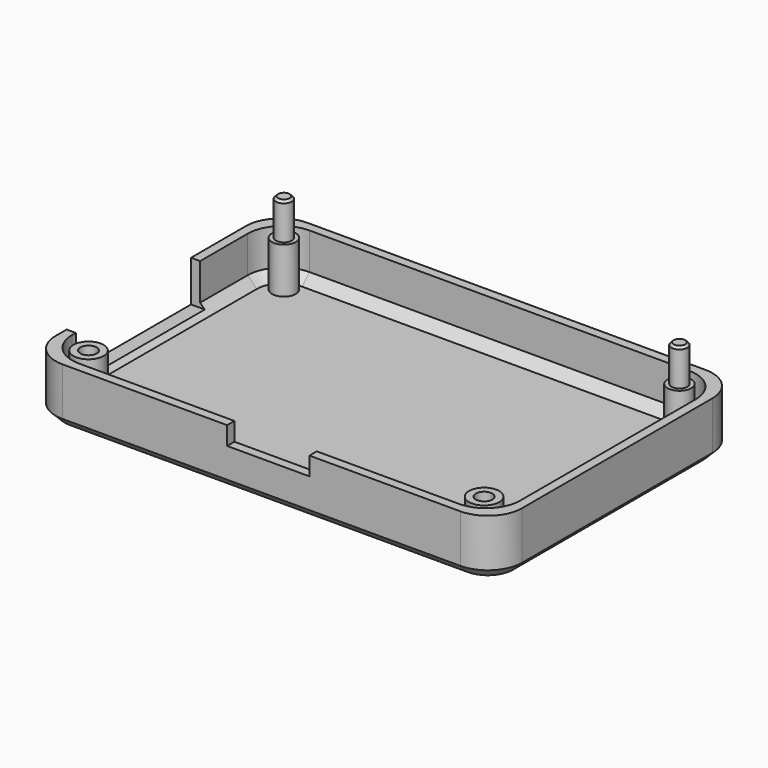
from build123d import *

# Parameters (mm, degrees)
F0_W      = 129.54
F0_H      = 85.09
F1_DEPTH  = 3.175
F2_W      = 129.54
F2_H      = 85.09
F2_W_2    = 124.46
F2_H_2    = 80.01
F3_DEPTH  = 12.7
F4_R      = 9.525
F5_SIZE   = 2.54
F2_R      = 4.191
F2_R_2    = 2.286
F6_DEPTH  = 12.7
F2_R_3    = 3.302
F7_DEPTH  = 12.7
F9_R      = 2.2225
F10_DEPTH = 10.16
F8_R      = 2.2225
F11_DEPTH = 10.16
F13_W     = 22.86
F13_H     = 5.08
F14_DEPTH = 2.54
F12_W     = 43.18
F12_H     = 11.43
F15_DEPTH = 3.811
F16_SIZE  = 0.635
F17_SIZE  = 0.635


with BuildPart() as f1:
    # F0 (on Top) → F1 (new body)
    with BuildSketch(Plane.XY):
        Rectangle(F0_W, F0_H)
    extrude(amount=F1_DEPTH)

    # F2 (on face) → F3 (join)
    with BuildSketch(Plane.XY.offset(3.175)):
        Rectangle(F2_W, F2_H)
        Rectangle(F2_W_2, F2_H_2, mode=Mode.SUBTRACT)
    extrude(amount=F3_DEPTH)

    # F4
    f4_edges = [f1.edges().sort_by_distance(p)[0] for p in [
        (62.23, 40.005, 9.525),
        (62.23, -40.005, 9.525),
        (-62.23, -40.005, 9.525),
        (-62.23, 40.005, 9.525),
        (64.77, 42.545, 7.9375),
        (64.77, -42.545, 7.9375),
        (-64.77, -42.545, 7.9375),
        (-64.77, 42.545, 7.9375),
    ]]
    fillet(f4_edges, radius=F4_R)

    # F5
    f5_edges = [f1.edges().sort_by_distance(p)[0] for p in [
        (0, 40.005, 3.175),
        (0, 42.545, 0),
    ]]
    chamfer(f5_edges, length=F5_SIZE)

    # F2 (on face) → F6 (join)
    with BuildSketch(Plane.XY.offset(3.175)):
        with Locations((-54.9275, -33.909)):
            Circle(F2_R)
        with Locations((-54.9275, -33.909)):
            Circle(F2_R_2, mode=Mode.SUBTRACT)
        with Locations((54.9275, -33.909)):
            Circle(F2_R)
        with Locations((54.9275, -33.909)):
            Circle(F2_R_2, mode=Mode.SUBTRACT)
    extrude(amount=F6_DEPTH)

    # F2 (on face) → F7 (join)
    with BuildSketch(Plane.XY.offset(3.175)):
        with Locations((-54.9275, 33.909)):
            Circle(F2_R_3)
        with Locations((54.9275, 33.909)):
            Circle(F2_R_3)
    extrude(amount=F7_DEPTH)

    # F9 (on face) → F10 (join)
    with BuildSketch(Plane.XY.offset(15.875)):
        with Locations((-54.9275, 33.909)):
            Circle(F9_R)
    extrude(amount=F10_DEPTH)

    # F8 (on face) → F11 (join)
    with BuildSketch(Plane.XY.offset(15.875)):
        with Locations((54.9275, 33.909)):
            Circle(F8_R)
    extrude(amount=F11_DEPTH)

    # F13 (on face) → F14 (cut, through all)
    with BuildSketch(Plane.XZ.offset(42.545)):
        with Locations((1.905, 13.335)):
            Rectangle(F13_W, F13_H)
    extrude(amount=-F14_DEPTH, mode=Mode.SUBTRACT)

    # F12 (on face) → F15 (cut, through all)
    with BuildSketch(Plane(origin=(-64.77, 0, 0), x_dir=(0, -1, 0), z_dir=(-1, 0, 0))):
        with Locations((7.62, 10.16)):
            Rectangle(F12_W, F12_H)
    extrude(amount=-F15_DEPTH, mode=Mode.SUBTRACT)

    # F16
    f16_edges = [f1.edges().sort_by_distance(p)[0] for p in [
        (-57.15, 33.909, 26.035),
    ]]
    chamfer(f16_edges, length=F16_SIZE)

    # F17
    f17_edges = [f1.edges().sort_by_distance(p)[0] for p in [
        (52.705, 33.909, 26.035),
    ]]
    chamfer(f17_edges, length=F17_SIZE)


solid = f1.part
